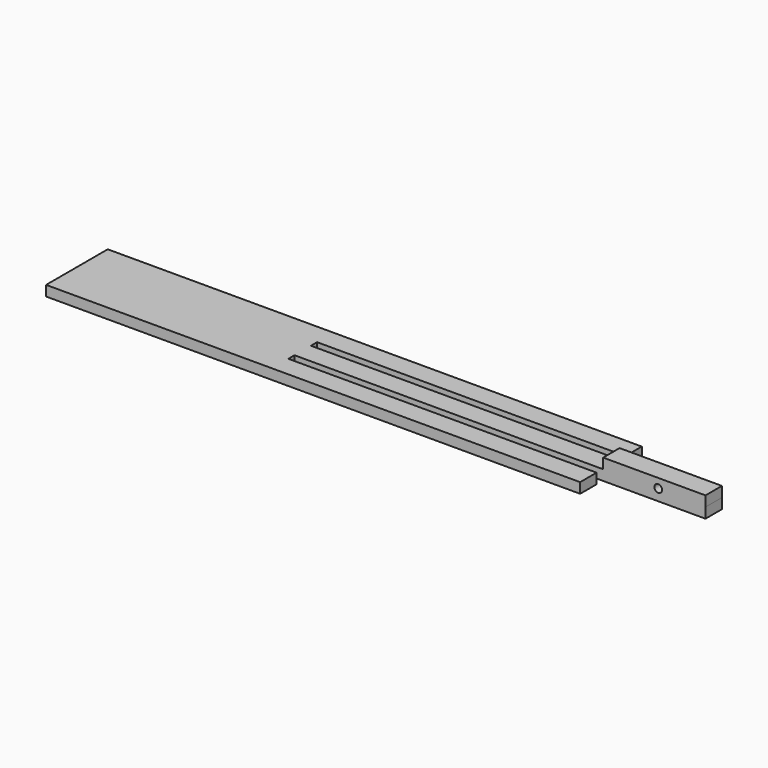
from build123d import *

# Parameters (mm, degrees)
F1_DEPTH = 4
F2_W     = 39.829583
F2_H     = 8
F3_DEPTH = 4
F4_R     = 1.5
F5_DEPTH = 25


with BuildPart() as f1:
    # F0 (on Top) → F1 (new body)
    with BuildSketch(Plane.XY):
        Polygon((-123.954707, -15), (83.954707, -15), (83.954707, -7), (-36.045293, -7), (-36.045293, -4), (123.954707, -4), (123.954707, 4), (-36.045293, 4), (-36.045293, 7), (83.954707, 7), (83.954707, 15), (-123.954707, 15), align=None)
    extrude(amount=F1_DEPTH)

    # F2 (on face) → F3 (join)
    with BuildSketch(Plane.XY.offset(4)):
        with Locations((104.039916, 0)):
            Rectangle(F2_W, F2_H)
    extrude(amount=F3_DEPTH)

    # F4 (on face) → F5 (cut)
    with BuildSketch(Plane.XZ.offset(4)):
        with Locations((105.56145, 4.376546)):
            Circle(F4_R)
    extrude(amount=-F5_DEPTH, mode=Mode.SUBTRACT)


solid = f1.part
